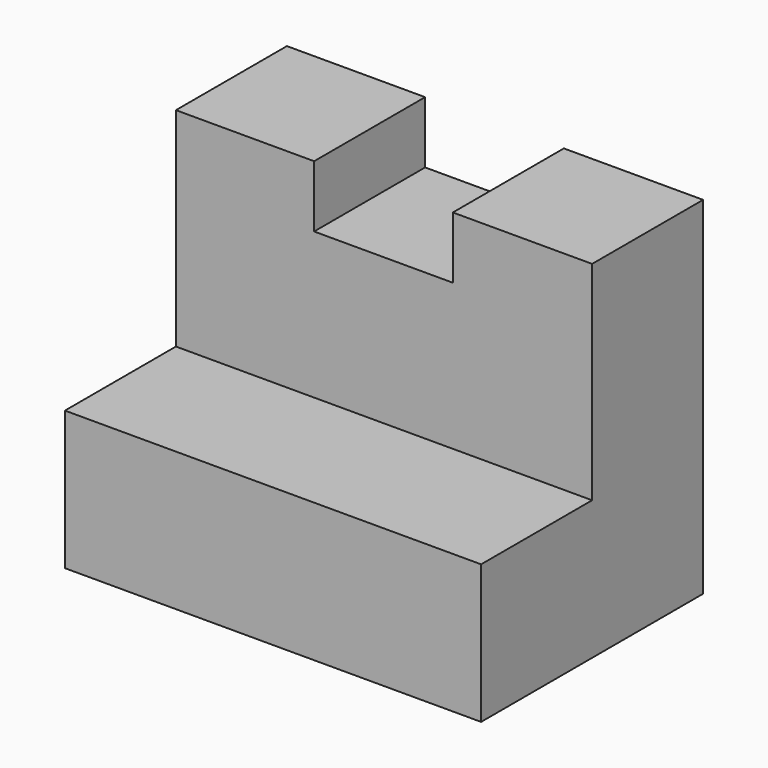
from build123d import *

# Parameters (mm, degrees)
F1_DEPTH = 38.1
F2_W     = 12.7
F2_H     = 6.35
F3_DEPTH = 25.4


with BuildPart() as f1:
    # F0 (on Right) → F1 (new body)
    with BuildSketch(Plane.YZ):
        Polygon((0, 12.7), (0, 0), (25.4, 0), (25.4, 31.75), (12.7, 31.75), (12.7, 12.7), align=None)
    extrude(amount=F1_DEPTH)

    # F2 (on Front) → F3 (cut)
    with BuildSketch(Plane.XZ):
        with Locations((19.00365, 29.260986)):
            Rectangle(F2_W, F2_H)
    extrude(amount=-F3_DEPTH, mode=Mode.SUBTRACT)


solid = f1.part
